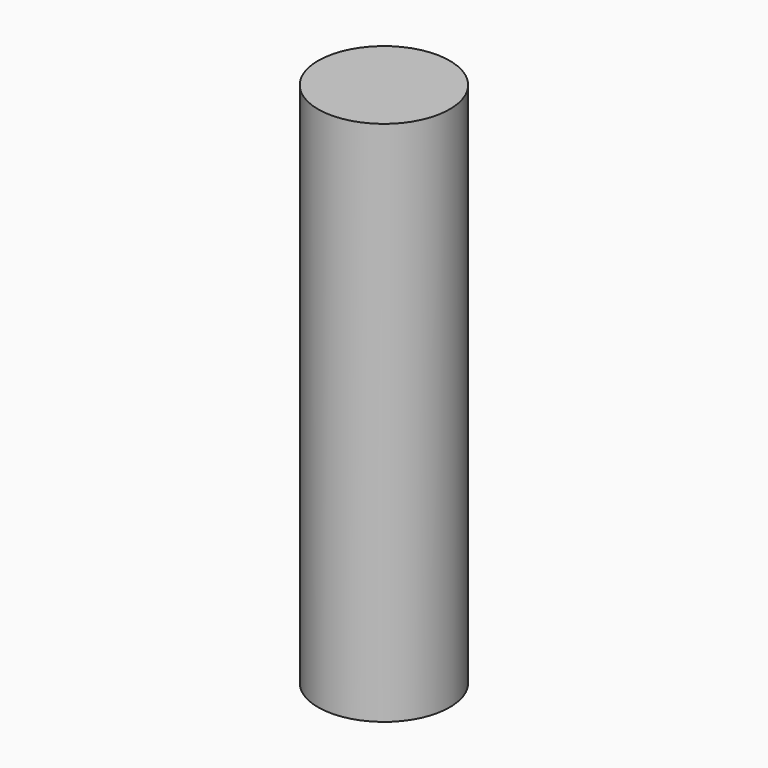
from build123d import *

# Parameters (mm, degrees)
F0_W   = 31.75
F0_H   = 12.7
F0_W_2 = 19.05


with BuildPart() as f1:
    # F0 (on Front) → F1 (revolve)
    with BuildSketch(Plane.XZ):
        with Locations((-15.875, 146.05)):
            Rectangle(F0_W, F0_H)
        Polygon((-31.75, 152.4), (-38.1, 152.4), (-38.1, -152.4), (-31.75, -152.4), (-31.75, -139.7), (-31.75, 139.7), align=None)
        with Locations((-22.225, -146.05)):
            Rectangle(F0_W_2, F0_H)
    revolve(axis=Axis((0, 0, 0), (0, 0, -1)))


solid = f1.part
